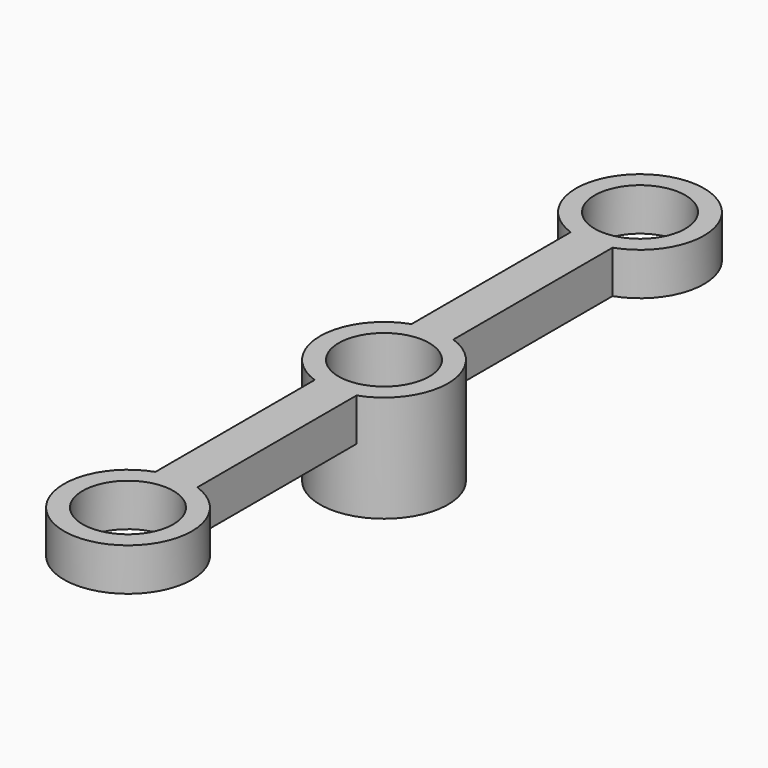
from build123d import *

# Parameters (mm, degrees)
SKETCH036_R             = 4.25
PAD014_DEPTH            = 4
SKETCH087_R             = 6
PAD030_DEPTH            = 10
SKETCH088_R             = 4.25
POCKET039_DEPTH         = 10
BODY005_PLACEMENT_ANGLE = 90


with BuildPart() as part:
    # Sketch036 → Pad014 (new body)
    with BuildSketch(Plane.XY):
        with BuildLine():
            ThreePointArc((5.67, 1.962422), (-6, 0), (5.67, -1.962422))
            Line((54.33, -1.962422), (5.67, -1.962422))
            ThreePointArc((54.33, -1.962422), (66, 0), (54.33, 1.962422))
            Line((5.67, 1.962422), (54.33, 1.962422))
        make_face()
        Circle(SKETCH036_R, mode=Mode.SUBTRACT)
        with Locations((60, 0)):
            Circle(SKETCH036_R, mode=Mode.SUBTRACT)
    extrude(amount=PAD014_DEPTH)

    # Sketch087 (on Face8 of Pad014) → Pad030 (join)
    with BuildSketch(Plane.XY.offset(4)):
        with Locations((30, 0)):
            Circle(SKETCH087_R)
    extrude(amount=-PAD030_DEPTH)

    # Sketch088 (on Face14 of Pad030) → Pocket039 (cut)
    with BuildSketch(Plane(origin=(0, 0, -6), x_dir=(1, 0, 0), z_dir=(0, 0, -1))):
        with Locations((30, 0)):
            Circle(SKETCH088_R)
    extrude(amount=-POCKET039_DEPTH, mode=Mode.SUBTRACT)


with BuildPart() as part_1:
    # Body005 placement: moved
    add(part.part.moved(Location((62, 59, 22))).rotate(Axis((62, 59, 22), (0, 0, 1)), BODY005_PLACEMENT_ANGLE))


solid = part_1.part
